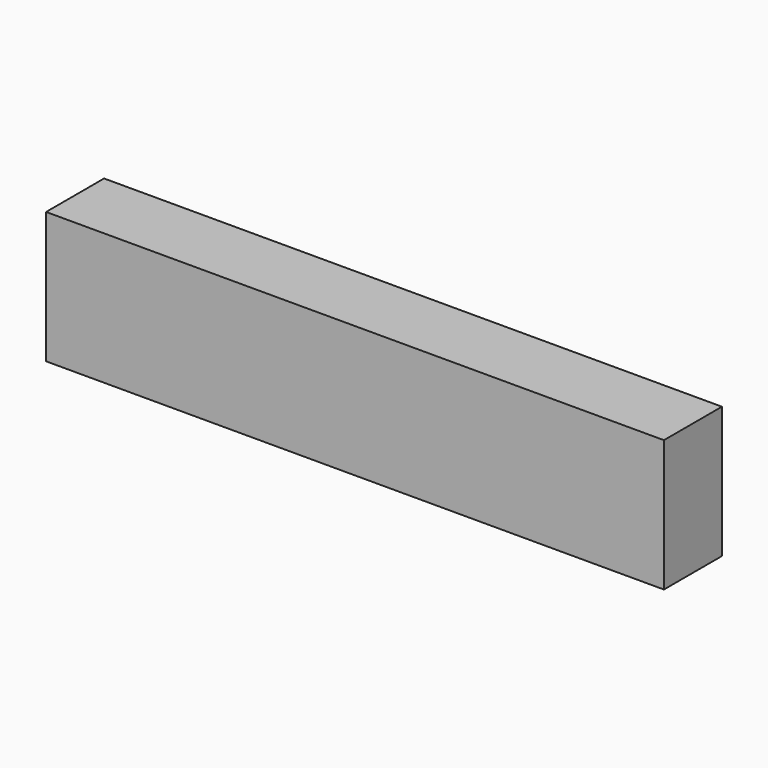
from build123d import *

# Parameters (mm, degrees)
F0_W     = 71.9553148374
F0_H     = 6.7674303427
F1_DEPTH = 4
F3_W     = 68.1674219668
F3_H     = 14.5089738071
F4_DEPTH = 8


with BuildPart() as f1:
    # F0 (on Right) → F1 (new body)
    with BuildSketch(Plane.YZ):
        with Locations((-27.2643235512, 7.9523953609)):
            Rectangle(F0_W, F0_H)
    extrude(amount=F1_DEPTH)


with BuildPart() as f4:
    # F3 (on Front) → F4 (new body)
    with BuildSketch(Plane.XZ):
        with Locations((-39.3010582775, 41.9480707496)):
            Rectangle(F3_W, F3_H)
    extrude(amount=F4_DEPTH)


solid = f4.part
